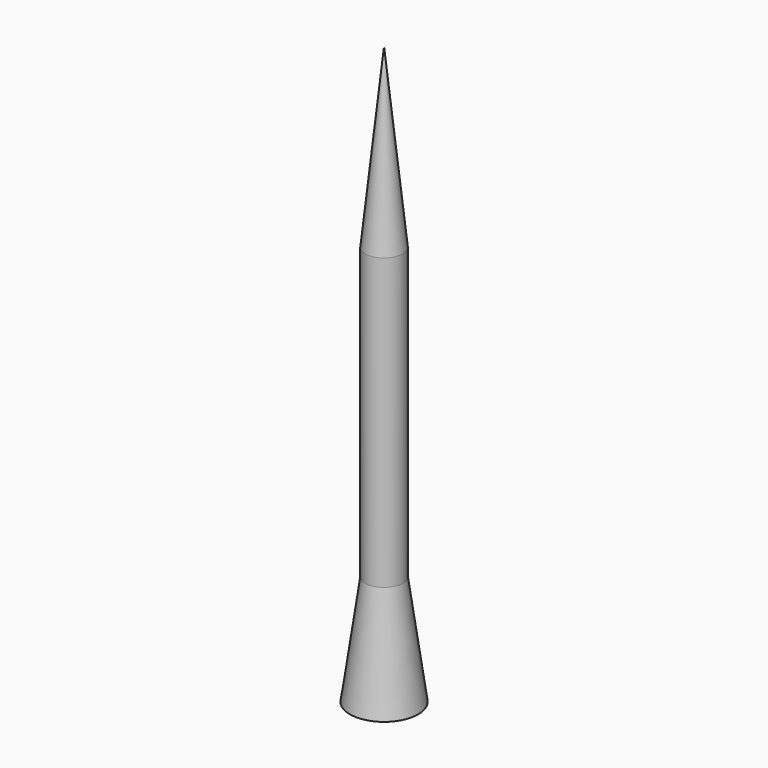
from build123d import *

# Parameters (mm, degrees)
F0_R     = 56.6410557647
F1_DEPTH = 414.35633
F2_R     = 56.6410557647
F3_DEPTH = 25.4
F4_R     = 56.6410557647
F5_DEPTH = 638.01814
F5_TAPER = 6
F6_R     = 56.6410557647
F7_DEPTH = 443.62
F8_R     = 56.6410557647
F9_DEPTH = 335.84362
F9_TAPER = -8


with BuildPart() as f1:
    # F0 (on Top) → F1 (new body)
    with BuildSketch(Plane.XY):
        Circle(F0_R)
    extrude(amount=-F1_DEPTH)

    # F2 (on face) → F3 (join)
    with BuildSketch(Plane.XY):
        Circle(F2_R)
    extrude(amount=F3_DEPTH)

    # F4 (on face) → F5 (join)
    with BuildSketch(Plane.XY.offset(25.4)):
        Circle(F4_R)
    extrude(amount=F5_DEPTH, taper=F5_TAPER)

    # F6 (on face) → F7 (join)
    with BuildSketch(Plane(origin=(0, 0, -414.35633), x_dir=(1, 0, 0), z_dir=(0, 0, -1))):
        Circle(F6_R)
    extrude(amount=F7_DEPTH)

    # F8 (on face) → F9 (join)
    with BuildSketch(Plane(origin=(0, 0, -857.97633), x_dir=(1, 0, 0), z_dir=(0, 0, -1))):
        Circle(F8_R)
    extrude(amount=F9_DEPTH, taper=F9_TAPER)


solid = f1.part
